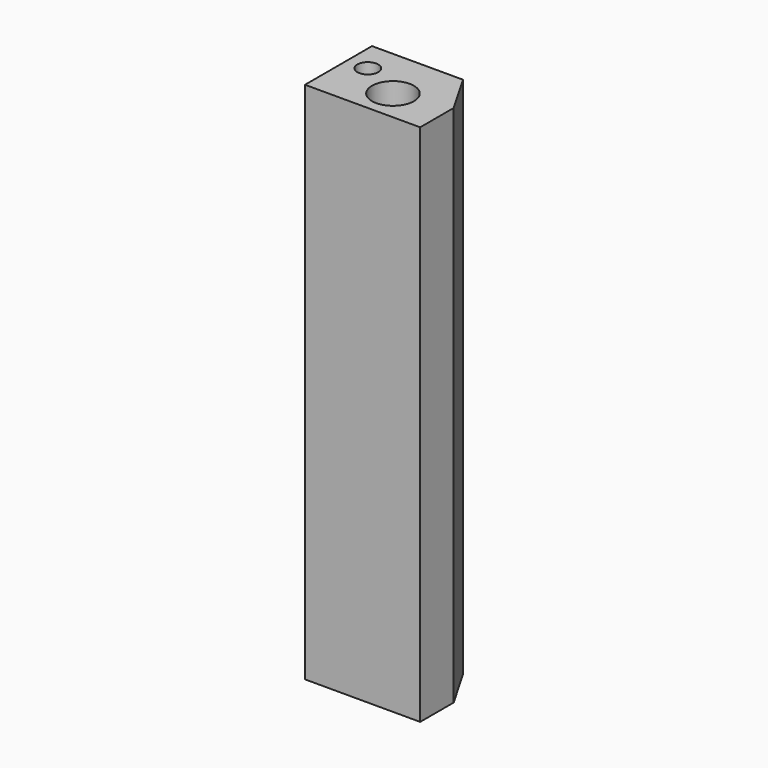
from build123d import *

# Parameters (mm, degrees)
F0_R     = 1
F0_R_2   = 0.5
F1_DEPTH = 25


with BuildPart() as f1:
    # F0 (on Top) → F1 (new body)
    with BuildSketch(Plane.XY):
        Polygon((-60.057886, -32.234945), (-60.057886, -34.734945), (-54.557886, -34.734945), (-54.557886, -32.734945), (-55.712586, -30.734945), (-60.057886, -30.734945), align=None)
        with Locations((-57.057886, -33.234945)):
            Circle(F0_R, mode=Mode.SUBTRACT)
        with Locations((-59.057886, -32.234945)):
            Circle(F0_R_2, mode=Mode.SUBTRACT)
    extrude(amount=F1_DEPTH)


solid = f1.part
